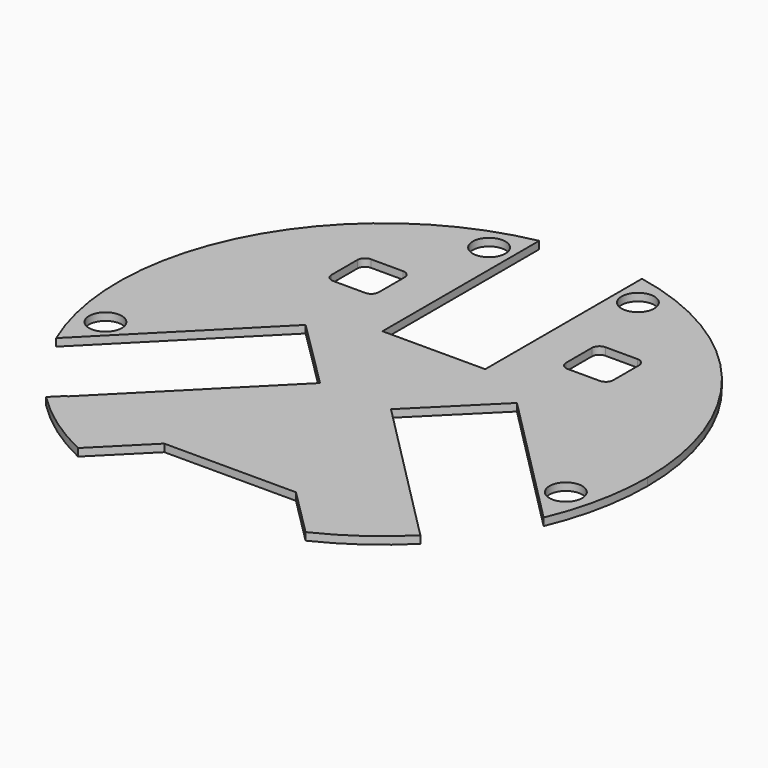
from build123d import *

# Parameters (mm, degrees)
F0_R     = 6.5
F1_DEPTH = 3


with BuildPart() as f1:
    # F0 (on Top) → F1 (new body)
    with BuildSketch(Plane.XY):
        with BuildLine():
            ThreePointArc((-20.428937125, 102.9934877939), (-92.9055396428, 48.9240299208), (-96.4815047793, -41.4284833844))
            Line((-96.4815047793, -41.4284833844), (-41.6658031427, 13.7363909711))
            Line((-41.6658031427, 13.7363909711), (-13.8767590343, -13.8767590343))
            Line((-13.8767590343, -13.8767590343), (0, 0))
            Line((0, 0), (0, 25.2874530852))
            Line((0, 25.2874530852), (-20.428937125, 25.2874530852))
            Line((-20.428937125, 25.2874530852), (-20.428937125, 102.9934877939))
        make_face()
        with Locations((-91.3139134645, -23.4654136002)):
            Circle(F0_R, mode=Mode.SUBTRACT)
        with BuildLine():
            ThreePointArc((-56.388001889, 57.7684769799), (-55.5093222326, 59.8897973234), (-53.388001889, 60.7684769799))
            Line((-53.388001889, 60.7684769799), (-40.6683964263, 60.7684769799))
            ThreePointArc((-40.6683964263, 60.7684769799), (-38.5470760828, 59.8897973234), (-37.6683964263, 57.7684769799))
            Line((-37.6683964263, 57.7684769799), (-37.6683964263, 45.0488715172))
            ThreePointArc((-37.6683964263, 45.0488715172), (-38.5470760828, 42.9275511736), (-40.6683964263, 42.0488715172))
            Line((-40.6683964263, 42.0488715172), (-53.388001889, 42.0488715172))
            ThreePointArc((-53.388001889, 42.0488715172), (-55.5093222326, 42.9275511736), (-56.388001889, 45.0488715172))
            Line((-56.388001889, 45.0488715172), (-56.388001889, 57.7684769799))
        make_face(mode=Mode.SUBTRACT)
        with Locations((-29.722429812, 89.7770151496)):
            Circle(F0_R, mode=Mode.SUBTRACT)
        with BuildLine():
            Line((0, 25.2874530852), (0, 0))
            Line((0, 0), (69.7533435465, -69.7533435465))
            Line((69.7533435465, -69.7533435465), (14.3003088274, -13.9084606974))
            Line((14.3003088274, -13.9084606974), (42.1468239183, 13.7426630826))
            Line((42.1468239183, 13.7426630826), (96.6167267267, -41.1121407447))
            ThreePointArc((96.6167267267, -41.1121407447), (102.8828370194, -20.9790811726), (105, 0))
            ThreePointArc((105, 0), (81.1159350321, 66.6723712182), (20.3294269741, 103.013175851))
            Line((20.3294269741, 103.013175851), (20.3294269741, 25.2874530852))
            Line((20.3294269741, 25.2874530852), (0, 25.2874530852))
        make_face()
        with Locations((91.3139144, -23.4654136002)):
            Circle(F0_R, mode=Mode.SUBTRACT)
        with BuildLine():
            ThreePointArc((37.1843986213, 57.0661032964), (38.0630782778, 59.18742364), (40.1843986213, 60.0661032964))
            Line((40.1843986213, 60.0661032964), (52.904004084, 60.0661032964))
            ThreePointArc((52.904004084, 60.0661032964), (55.0253244276, 59.18742364), (55.904004084, 57.0661032964))
            Line((55.904004084, 57.0661032964), (55.904004084, 44.3464978337))
            ThreePointArc((55.904004084, 44.3464978337), (55.0253244276, 42.2251774902), (52.904004084, 41.3464978337))
            Line((52.904004084, 41.3464978337), (40.1843986213, 41.3464978337))
            ThreePointArc((40.1843986213, 41.3464978337), (38.0630782778, 42.2251774902), (37.1843986213, 44.3464978337))
            Line((37.1843986213, 44.3464978337), (37.1843986213, 57.0661032964))
        make_face(mode=Mode.SUBTRACT)
        with Locations((29.2972179146, 89.7770151496)):
            Circle(F0_R, mode=Mode.SUBTRACT)
        with BuildLine():
            Line((-69.5263431778, -69.5263431778), (-74.2462120246, -74.2462120246))
            ThreePointArc((-74.2462120246, -74.2462120246), (-60.5690845883, -85.7693767736), (-45.1347826829, -94.804279398))
            Line((-45.1347826829, -94.804279398), (-26.1228149757, -75.7923116907))
            Line((-26.1228149757, -75.7923116907), (0, -49.6694967151))
            Line((0, -49.6694967151), (0, 0))
            Line((0, 0), (-13.8767590343, -13.8767590343))
            Line((-13.8767590343, -13.8767590343), (-13.825551364, -13.9276425795))
            Line((-13.825551364, -13.9276425795), (-69.2978968304, -69.7533435465))
            Line((-69.2978968304, -69.7533435465), (-69.5263431778, -69.5263431778))
        make_face()
        with BuildLine():
            Line((26.1228149757, -75.7923116907), (45.1347826829, -94.804279398))
            ThreePointArc((45.1347826829, -94.804279398), (60.5690845883, -85.7693767736), (74.2462120246, -74.2462120246))
            Line((74.2462120246, -74.2462120246), (69.7533435465, -69.7533435465))
            Line((69.7533435465, -69.7533435465), (0, 0))
            Line((0, 0), (0, -49.6694967151))
            Line((0, -49.6694967151), (26.1228149757, -75.7923116907))
        make_face()
        Polygon((0, -49.6694967151), (-26.1228149757, -75.7923116907), (0, -75.7923116907), (0, -64.7160249151), align=None)
        Polygon((0, -64.7160249151), (0, -75.7923116907), (26.1228149757, -75.7923116907), (0, -49.6694967151), align=None)
    extrude(amount=F1_DEPTH)


solid = f1.part
